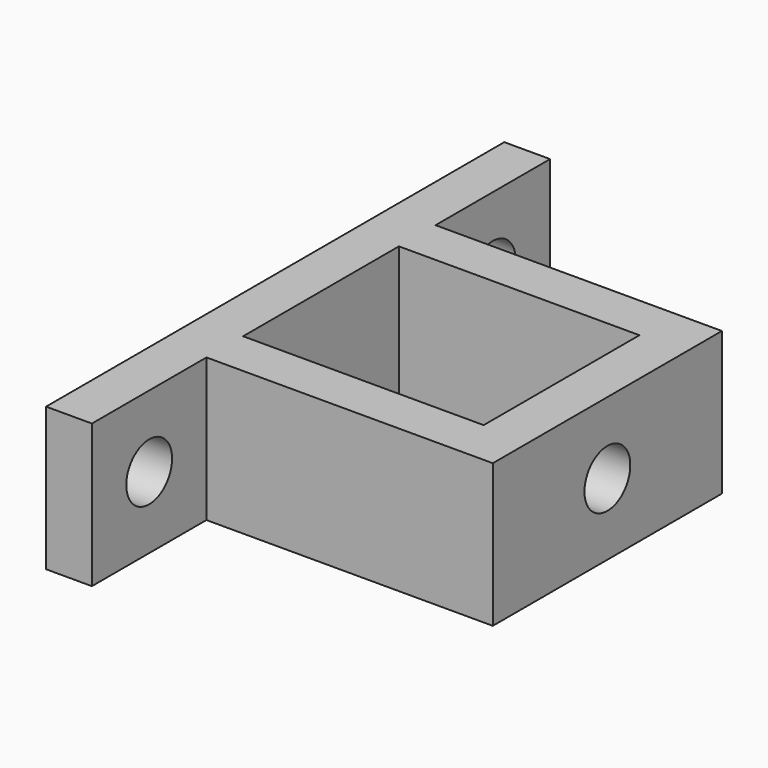
from build123d import *

# Parameters (mm, degrees)
F0_W     = 84
F0_H     = 68
F1_DEPTH = 50
F4_D     = 20
F5_D     = 20
F5_DEPTH = 50


with BuildPart() as f1:
    # F0 (on Top) → F1 (new body)
    with BuildSketch(Plane.XY):
        Polygon((0, 200), (0, 0), (16, 0), (16, 50), (116, 50), (116, 150), (16, 150), (16, 200), align=None)
        with Locations((58, 100)):
            Rectangle(F0_W, F0_H, mode=Mode.SUBTRACT)
    extrude(amount=F1_DEPTH)

    # F4 (through all)
    with Locations(Plane.YZ.offset(16)):
        with Locations((25, 25), (175, 25)):
            Hole(F4_D / 2)

    # F5
    with Locations(Plane.YZ.offset(116)):
        with Locations((100, 25)):
            Hole(F5_D / 2, depth=F5_DEPTH)


solid = f1.part
